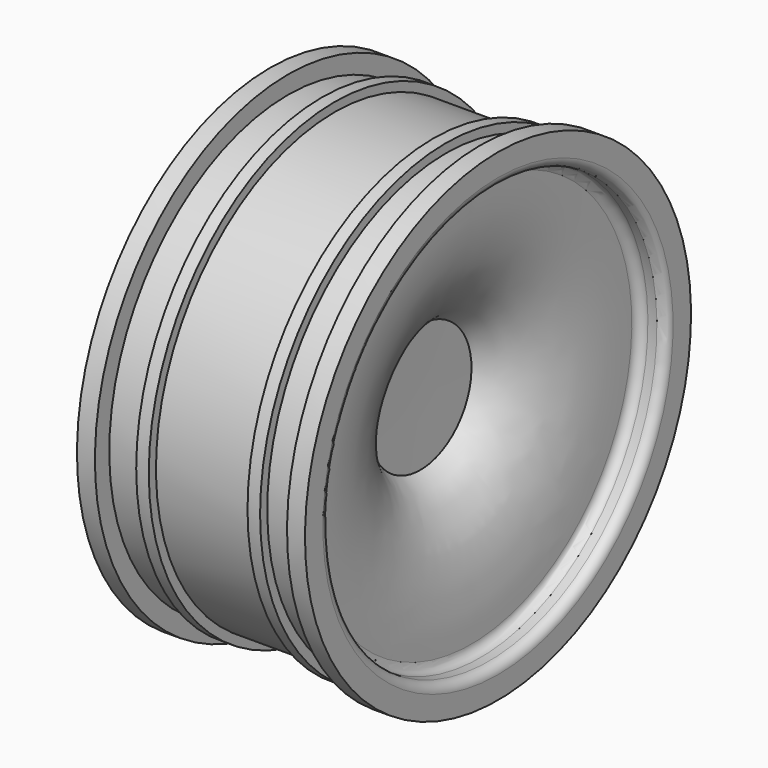
from build123d import *


with BuildPart() as f1:
    # F0 (on Front) → F1 (revolve)
    with BuildSketch(Plane.XZ):
        with BuildLine():
            Line((0, 8), (0, 0))
            Line((0, 0), (7.053804, 0))
            Line((7.053804, 0), (7.10286, 7.121615))
            add(Edge.make_bspline(
                [(12.751287, 22.386151), (12.729504, 17.395303), (12.390139, 10.323073), (7.10286, 7.121615)],
                knots=[1.104509, 1.104509, 1.104509, 1.104509, 17.208148, 17.208148, 17.208148, 17.208148], degree=3))
            ThreePointArc((12.751287, 22.386151), (13.045715, 23.090435), (13.751277, 23.381786))
            Line((13.751277, 23.381786), (14.752781, 23.381786))
            ThreePointArc((14.752781, 23.381786), (15.459887, 23.67468), (15.752781, 24.381786))
            Line((15.752781, 24.381786), (15.752781, 26.881786))
            Line((15.752781, 26.881786), (13.752781, 26.881786))
            Line((13.752781, 26.881786), (13.752781, 24.881786))
            Line((13.752781, 24.881786), (9.952781, 24.881786))
            Line((9.952781, 24.881786), (9.952781, 25.881786))
            Line((9.952781, 25.881786), (8.552781, 25.881786))
            Line((8.552781, 25.881786), (8.552781, 24.881786))
            Line((8.552781, 24.881786), (-2.447219, 24.881786))
            Line((-2.447219, 24.881786), (-2.447219, 25.881786))
            Line((-2.447219, 25.881786), (-3.847219, 25.881786))
            Line((-3.847219, 25.881786), (-3.847219, 24.881786))
            Line((-3.847219, 24.881786), (-7.647219, 24.881786))
            Line((-7.647219, 24.881786), (-7.647219, 26.881786))
            Line((-7.647219, 26.881786), (-9.647219, 26.881786))
            Line((-9.647219, 26.881786), (-9.647219, 24.381786))
            ThreePointArc((-9.647219, 24.381786), (-9.354326, 23.67468), (-8.647219, 23.381786))
            Line((-8.647219, 23.381786), (7.235566, 23.381786))
            ThreePointArc((7.235566, 23.381786), (7.88993, 23.137966), (8.2252, 22.525401))
            add(Edge.make_bspline(
                [(8.2252, 22.525401), (8.952293, 17.515068), (7.575597, 10.359274), (2.874941, 8)],
                knots=[0.897887, 0.897887, 0.897887, 0.897887, 16.237359, 16.237359, 16.237359, 16.237359], degree=3))
            Line((2.874941, 8), (0, 8))
        make_face()
    revolve(axis=Axis((3.526902, 0, 0), (-1, 0, 0)))


solid = f1.part
